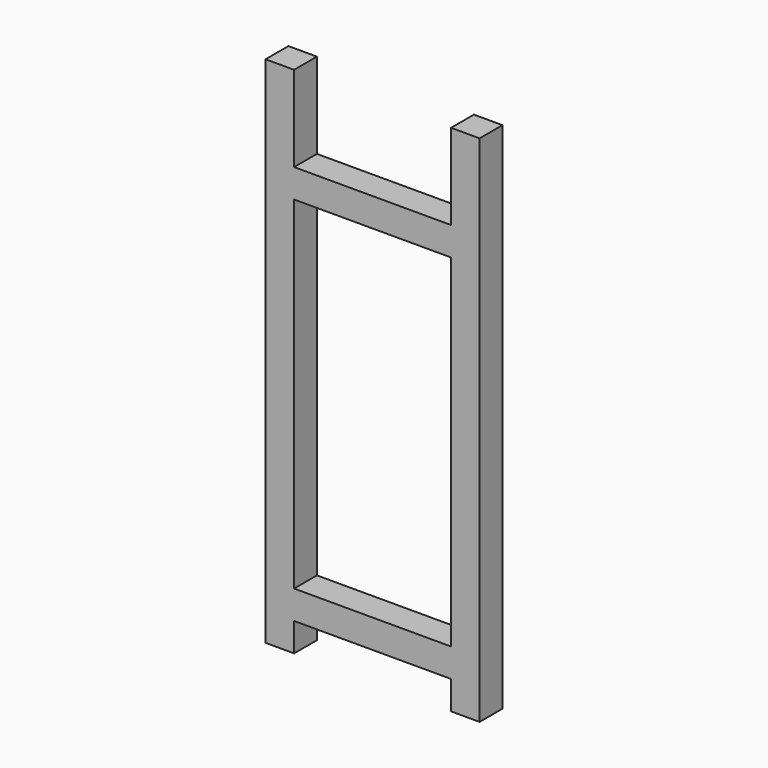
from build123d import *

# Parameters (mm, degrees)
F0_W     = 139.7000707157
F0_H     = 25.4
F1_DEPTH = 25.4


with BuildPart() as f1:
    # F0 (on Front) → F1 (new body)
    with BuildSketch(Plane.XZ):
        Polygon((0, 457.2), (0, 0), (25.4, 0), (25.4, 25.4), (25.4, 50.8), (25.4, 355.6), (25.4, 381), (25.4, 457.2), align=None)
        Polygon((165.1000707157, 50.8), (165.1000707157, 25.4), (165.1000707157, 0), (190.5000707157, 0), (190.5000707157, 457.2), (165.1000707157, 457.2), (165.1000707157, 381), (165.1000707157, 355.6), align=None)
        with Locations((95.2500353579, 368.3)):
            Rectangle(F0_W, F0_H)
        with Locations((95.2500353579, 38.1)):
            Rectangle(F0_W, F0_H)
    extrude(amount=F1_DEPTH)


solid = f1.part
